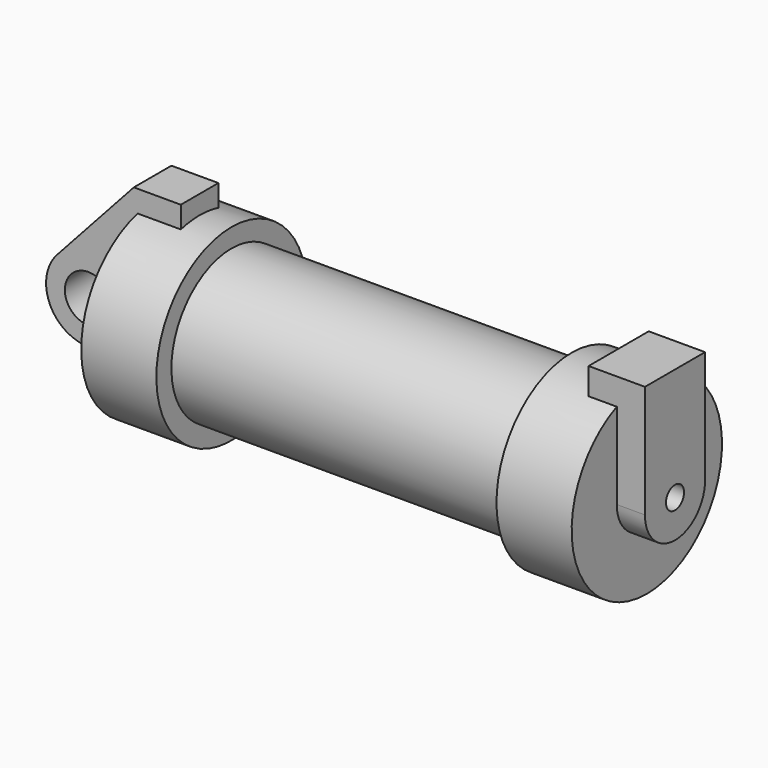
from build123d import *

# Parameters (mm, degrees)
F0_W     = 5.842
F0_H     = 12.7
F0_R     = 3.175
F2_DEPTH = 3.175
F3_R     = 1.524
F4_DEPTH = 3.81


with BuildPart() as f1:
    # F0 (on Front) → F1 (revolve)
    with BuildSketch(Plane.XZ):
        Polygon((5.842, 12.7), (5.842, 0), (66.294, 0), (66.294, 12.7), (56.134, 12.7), (56.134, 10.16), (10.16, 10.16), (10.16, 12.7), align=None)
        with Locations((2.921, 6.35)):
            Rectangle(F0_W, F0_H)
    revolve(axis=Axis((33.147, 0, 0), (-1, 0, 0)))

    # F0 (on Front) → F2 (join, symmetric)
    with BuildSketch(Plane.XZ):
        with Locations((2.921, 6.35)):
            Rectangle(F0_W, F0_H)
        with BuildLine():
            Line((-0.9398, 0), (0, 0))
            Line((0, 0), (0, 12.7))
            Line((0, 12.7), (5.842, 12.7))
            Line((5.842, 12.7), (5.842, 15.24))
            Line((5.842, 15.24), (-0.508, 15.24))
            Line((-0.508, 15.24), (-10.8806298187, 3.8475430269))
            ThreePointArc((-10.8806298187, 3.8475430269), (-4.5919612295, 5.3297205562), (-0.9398, 0))
        make_face()
        with BuildLine():
            Line((5.842, 0), (0, 0))
            Line((0, 0), (-0.9398, 0))
            ThreePointArc((-0.9398, 0), (-3.1957909266, -4.5493385486), (-8.1826630726, -5.5069827884))
            Line((-8.1826630726, -5.5069827884), (5.842, -9.398))
            Line((5.842, -9.398), (5.842, 0))
        make_face()
        with BuildLine():
            ThreePointArc((-8.1826630726, -5.5069827884), (-3.1957909266, -4.5493385486), (-0.9398, 0))
            ThreePointArc((-0.9398, 0), (-4.5919612295, 5.3297205562), (-10.8806298187, 3.8475430269))
            ThreePointArc((-10.8806298187, 3.8475430269), (-12.1459778134, -1.5837270034), (-8.1826630726, -5.5069827884))
        make_face()
        with Locations((-6.6548, 0)):
            Circle(F0_R, mode=Mode.SUBTRACT)
    extrude(amount=F2_DEPTH, both=True)

    # F3 (on face) → F4 (join, symmetric)
    with BuildSketch(Plane.YZ.offset(66.294)):
        with BuildLine():
            ThreePointArc((-5.08, 0), (0, 5.08), (5.08, 0))
            Line((5.08, 0), (5.08, 11.6397422652))
            ThreePointArc((5.08, 11.6397422652), (0, 12.7), (-5.08, 11.6397422652))
            Line((-5.08, 11.6397422652), (-5.08, 0))
        make_face()
        with BuildLine():
            ThreePointArc((-5.08, 0), (0, -5.08), (5.08, 0))
            ThreePointArc((5.08, 0), (0, 5.08), (-5.08, 0))
        make_face()
        Circle(F3_R, mode=Mode.SUBTRACT)
        with BuildLine():
            ThreePointArc((-5.08, 11.6397422652), (0, 12.7), (5.08, 11.6397422652))
            Line((5.08, 11.6397422652), (5.08, 15.24))
            Line((5.08, 15.24), (-5.08, 15.24))
            Line((-5.08, 15.24), (-5.08, 11.6397422652))
        make_face()
    extrude(amount=F4_DEPTH, both=True)


solid = f1.part
